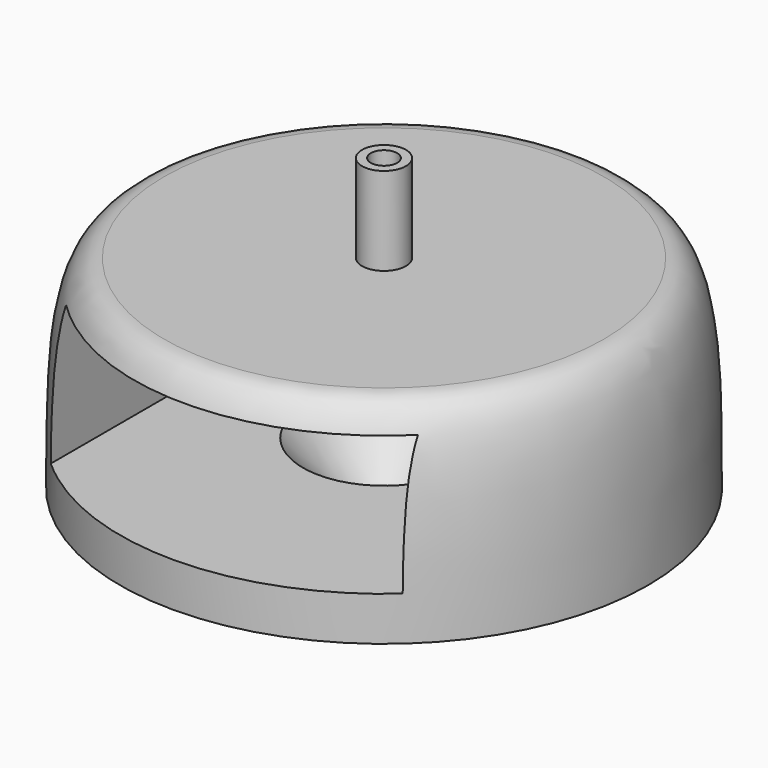
from build123d import *

# Parameters (mm, degrees)
F2_W      = 50.8
F2_H      = 38.1
F4_W      = 101.6
F4_H      = 38.1
F5_DEPTH  = 76.2010001
F6_W      = 38.1
F6_H      = 38.1
F7_DEPTH  = 7.62
F8_R      = 6.35
F9_DEPTH  = 20.32
F9_TAPER  = -40
F10_R     = 6.35
F11_DEPTH = 25.4
F12_R     = 3.81
F13_DEPTH = 33.02


with BuildPart() as f1:
    # F0 (on Front) → F1 (revolve)
    with BuildSketch(Plane.XZ):
        with BuildLine():
            Line((0, 0), (76.2, 0))
            add(Edge.make_bspline(
                [(76.2, 0), (76.2, 30.4536055773), (76.2, 58.42), (63.5, 58.42)],
                knots=[0, 0, 0, 0, 59.7844996634, 59.7844996634, 59.7844996634, 59.7844996634], degree=3))
            Line((63.5, 58.42), (0, 58.42))
            Line((0, 58.42), (0, 0))
        make_face()
    revolve(axis=Axis((0, 0, 29.21), (0, 0, 1)))

    # F2 (on Front) → F3 (revolve, cut)
    with BuildSketch(Plane.XZ):
        with Locations((25.4, 31.75)):
            Rectangle(F2_W, F2_H)
    revolve(axis=Axis((0, 0, 31.75), (0, 0, 1)), mode=Mode.SUBTRACT)

    # F4 (on Front) → F5 (cut, through all)
    with BuildSketch(Plane.XZ):
        with Locations((0, 31.75)):
            Rectangle(F4_W, F4_H)
    extrude(amount=F5_DEPTH, mode=Mode.SUBTRACT)

    # F6 (on face) → F7 (join)
    with BuildSketch(Plane(origin=(0, 0, 0), x_dir=(1, 0, 0), z_dir=(0, 0, -1))):
        Rectangle(F6_W, F6_H)
    extrude(amount=F7_DEPTH)

    # F8 (on face) → F9 (cut, through all)
    with BuildSketch(Plane(origin=(0, 0, -7.62), x_dir=(1, 0, 0), z_dir=(0, 0, -1))):
        Circle(F8_R)
    extrude(amount=-F9_DEPTH, taper=F9_TAPER, mode=Mode.SUBTRACT)

    # F10 (on face) → F11 (join)
    with BuildSketch(Plane.XY.offset(58.42)):
        Circle(F10_R)
    extrude(amount=F11_DEPTH)

    # F12 (on face) → F13 (cut, through all)
    with BuildSketch(Plane.XY.offset(83.82)):
        Circle(F12_R)
    extrude(amount=-F13_DEPTH, mode=Mode.SUBTRACT)


solid = f1.part
